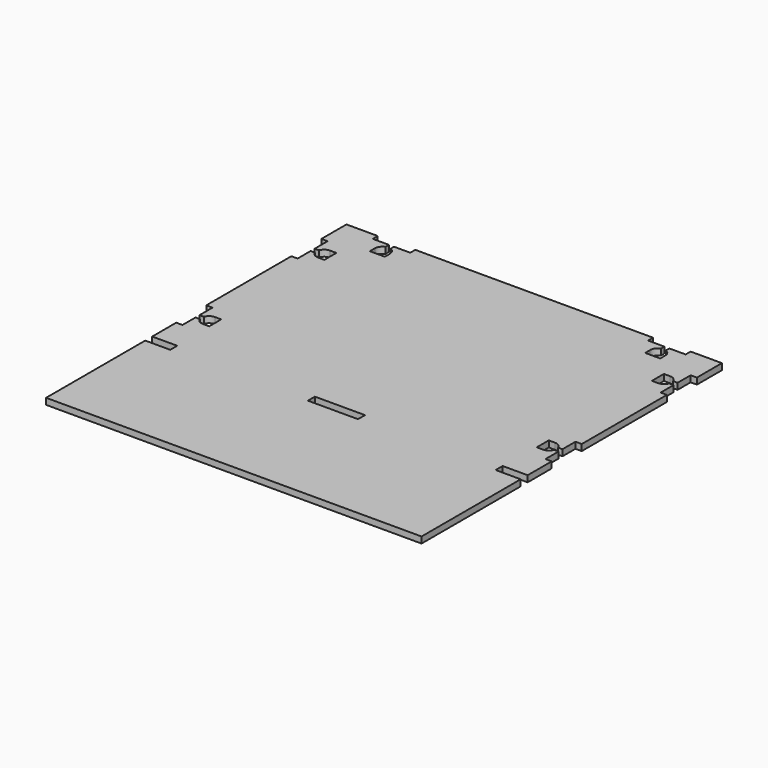
from build123d import *

# Parameters (mm, degrees)
F0_W     = 40
F0_H     = 7
F1_DEPTH = 5


with BuildPart() as f1:
    # F0 (on Top) → F1 (new body)
    with BuildSketch(Plane.XY):
        with BuildLine():
            Line((25, 0), (0, 0))
            Line((0, 0), (0, -25))
            Line((0, -25), (5, -25))
            Line((5, -25), (5, -38))
            Line((5, -38), (8.5, -38))
            ThreePointArc((8.5, -38), (10.692753, -35.101021), (14.156854, -34))
            Line((14.156854, -34), (19.156854, -34))
            Line((19.156854, -34), (19.156854, -46))
            Line((19.156854, -46), (14.156854, -46))
            ThreePointArc((14.156854, -46), (10.692753, -44.898979), (8.5, -42))
            Line((8.5, -42), (5, -42))
            Line((5, -42), (5, -55))
            Line((5, -55), (0, -55))
            Line((0, -55), (0, -140))
            Line((0, -140), (5, -140))
            Line((5, -140), (5, -153))
            Line((5, -153), (8.5, -153))
            ThreePointArc((8.5, -153), (10.692753, -150.101021), (14.156854, -149))
            Line((14.156854, -149), (19.156854, -149))
            Line((19.156854, -149), (19.156854, -161))
            Line((19.156854, -161), (14.156854, -161))
            ThreePointArc((14.156854, -161), (10.692753, -159.898979), (8.5, -157))
            Line((8.5, -157), (5, -157))
            Line((5, -157), (5, -170))
            Line((5, -170), (0, -170))
            Line((0, -170), (0, -194))
            Line((0, -194), (20, -194))
            Line((20, -194), (20, -201))
            Line((20, -201), (0, -201))
            Line((0, -201), (0, -300))
            Line((0, -300), (300, -300))
            Line((300, -300), (300, -201))
            Line((300, -201), (280, -201))
            Line((280, -201), (280, -194))
            Line((280, -194), (300, -194))
            Line((300, -194), (300, -170))
            Line((300, -170), (295, -170))
            Line((295, -170), (295, -157))
            Line((295, -157), (291.5, -157))
            ThreePointArc((291.5, -157), (289.307247, -159.898979), (285.843146, -161))
            Line((285.843146, -161), (280.843146, -161))
            Line((280.843146, -161), (280.843146, -149))
            Line((280.843146, -149), (285.843146, -149))
            ThreePointArc((285.843146, -149), (289.307247, -150.101021), (291.5, -153))
            Line((291.5, -153), (295, -153))
            Line((295, -153), (295, -140))
            Line((295, -140), (300, -140))
            Line((300, -140), (300, -55))
            Line((300, -55), (295, -55))
            Line((295, -55), (295, -42))
            Line((295, -42), (291.5, -42))
            ThreePointArc((291.5, -42), (289.307247, -44.898979), (285.843146, -46))
            Line((285.843146, -46), (280.843146, -46))
            Line((280.843146, -46), (280.843146, -34))
            Line((280.843146, -34), (285.843146, -34))
            ThreePointArc((285.843146, -34), (289.307247, -35.101021), (291.5, -38))
            Line((291.5, -38), (295, -38))
            Line((295, -38), (295, -25))
            Line((295, -25), (300, -25))
            Line((300, -25), (300, 0))
            Line((300, 0), (275, 0))
            Line((275, 0), (275, -5))
            Line((275, -5), (262, -5))
            Line((262, -5), (262, -8.5))
            ThreePointArc((262, -8.5), (264.898979, -10.692753), (266, -14.156854))
            Line((266, -14.156854), (266, -19.156854))
            Line((266, -19.156854), (254, -19.156854))
            Line((254, -19.156854), (254, -14.156854))
            ThreePointArc((254, -14.156854), (255.101021, -10.692753), (258, -8.5))
            Line((258, -8.5), (258, -5))
            Line((258, -5), (245, -5))
            Line((245, -5), (245, 0))
            Line((245, 0), (55, 0))
            Line((55, 0), (55, -5))
            Line((55, -5), (42, -5))
            Line((42, -5), (42, -8.5))
            ThreePointArc((42, -8.5), (44.898979, -10.692753), (46, -14.156854))
            Line((46, -14.156854), (46, -19.156854))
            Line((46, -19.156854), (34, -19.156854))
            Line((34, -19.156854), (34, -14.156854))
            ThreePointArc((34, -14.156854), (35.101021, -10.692753), (38, -8.5))
            Line((38, -8.5), (38, -5))
            Line((38, -5), (25, -5))
            Line((25, -5), (25, 0))
        make_face()
        with Locations((150, -197.5)):
            Rectangle(F0_W, F0_H, mode=Mode.SUBTRACT)
    extrude(amount=F1_DEPTH)


solid = f1.part
